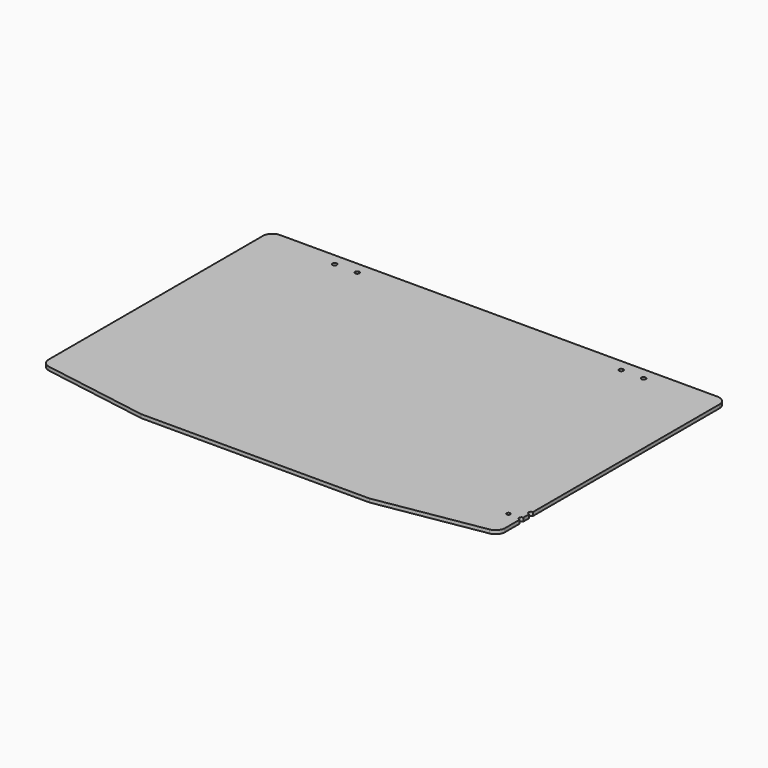
from build123d import *

# Parameters (mm, degrees)
F0_W     = 609.6
F0_H     = 406.4
F1_DEPTH = 4.7625
F3_DEPTH = 25.4
F5_D     = 5.8
F7_DEPTH = 25.4
F9_D     = 4.8
F10_R    = 12.7


with BuildPart() as f1:
    # F0 (on Top) → F1 (new body)
    with BuildSketch(Plane.XY):
        Rectangle(F0_W, F0_H)
    extrude(amount=F1_DEPTH)

    # F2 (on face) → F3 (cut)
    with BuildSketch(Plane.XY.offset(4.7625)):
        Polygon((-152.4, -203.2), (-304.8, -177.8), (-304.8, -203.2), align=None)
        Polygon((152.4, -203.2), (304.8, -203.2), (304.8, -177.8), align=None)
    extrude(amount=-F3_DEPTH, mode=Mode.SUBTRACT)

    # F5 (through all)
    with Locations(Plane.XY.offset(4.7625)):
        with Locations((-206.375, 187.325), (-176.2125, 187.325), (176.2125, 187.325), (206.375, 187.325)):
            Hole(F5_D / 2)

    # F6 (on face) → F7 (cut)
    with BuildSketch(Plane.XY.offset(4.7625)):
        with BuildLine():
            Line((304.8, -127), (304.8, -120.65))
            ThreePointArc((304.8, -120.65), (301.625, -123.825), (304.8, -127))
        make_face()
        with BuildLine():
            Line((304.8, -142.875), (304.8, -136.525))
            ThreePointArc((304.8, -136.525), (301.625, -139.7), (304.8, -142.875))
        make_face()
    extrude(amount=-F7_DEPTH, mode=Mode.SUBTRACT)

    # F9 (through all)
    with Locations(Plane.XY.offset(4.7625)):
        with Locations((287.3375, -139.7)):
            Hole(F9_D / 2)

    # F10
    f10_edges = [f1.edges().sort_by_distance(p)[0] for p in [
        (304.8, -177.8, 2.38125),
        (-304.8, -177.8, 2.38125),
        (304.8, 203.2, 2.38125),
        (-304.8, 203.2, 2.38125),
    ]]
    fillet(f10_edges, radius=F10_R)


solid = f1.part
